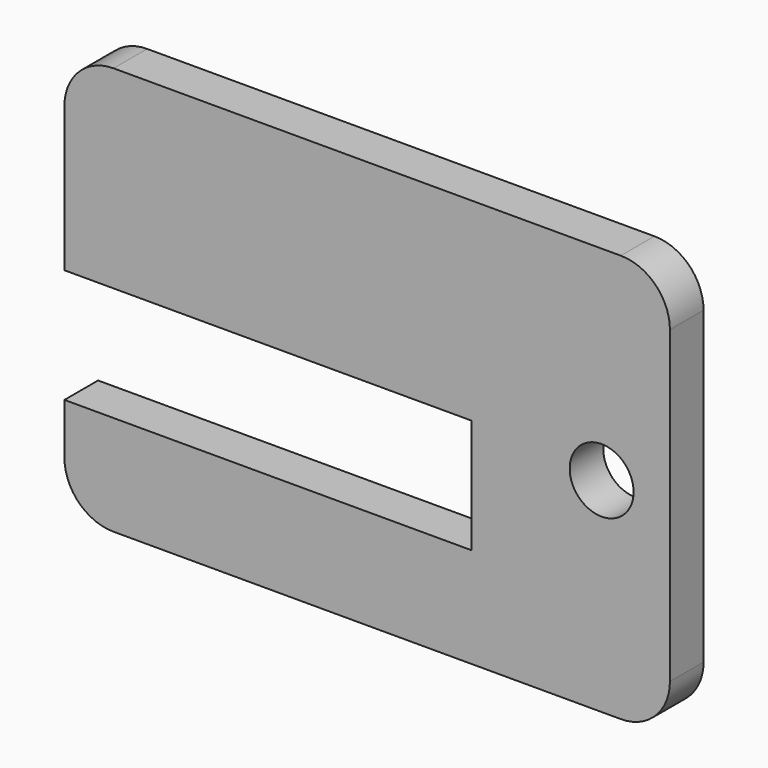
from build123d import *

# Parameters (mm, degrees)
F0_R     = 1.9
F0_R_2   = 1.2
F1_DEPTH = 2.5


with BuildPart() as f1:
    # F0 (on Front) → F1 (new body)
    with BuildSketch(Plane.XZ):
        with BuildLine():
            Line((-75.4409729668, -27.461595714), (-105.5989729668, -27.461595714))
            ThreePointArc((-105.5989729668, -27.461595714), (-107.6644318746, -28.3171368061), (-108.5199729668, -30.382595714))
            Line((-108.5199729668, -30.382595714), (-108.5199729668, -38.982595714))
            Line((-108.5199729668, -38.982595714), (-84.3267729668, -38.982595714))
            Line((-84.3267729668, -38.982595714), (-84.3267729668, -43.232595714))
            Line((-84.3267729668, -43.232595714), (-84.3267729668, -43.516595714))
            Line((-84.3267729668, -43.516595714), (-84.3267729668, -45.766595714))
            Line((-84.3267729668, -45.766595714), (-87.5695321803, -45.766595714))
            ThreePointArc((-87.5695321803, -45.766595714), (-88.9111729668, -46.766595714), (-90.2528137533, -45.766595714))
            Line((-90.2528137533, -45.766595714), (-91.9383321803, -45.766595714))
            ThreePointArc((-91.9383321803, -45.766595714), (-93.2799729668, -46.766595714), (-94.6216137533, -45.766595714))
            Line((-94.6216137533, -45.766595714), (-96.3071321803, -45.766595714))
            ThreePointArc((-96.3071321803, -45.766595714), (-97.6487729668, -46.766595714), (-98.9904137533, -45.766595714))
            Line((-98.9904137533, -45.766595714), (-100.6759321803, -45.766595714))
            ThreePointArc((-100.6759321803, -45.766595714), (-102.0175729668, -46.766595714), (-103.3592137533, -45.766595714))
            Line((-103.3592137533, -45.766595714), (-108.5199729668, -45.766595714))
            Line((-108.5199729668, -45.766595714), (-108.5199729668, -48.797595714))
            ThreePointArc((-108.5199729668, -48.797595714), (-107.6644318746, -50.8630546218), (-105.5989729668, -51.718595714))
            Line((-105.5989729668, -51.718595714), (-75.4409729668, -51.718595714))
            ThreePointArc((-75.4409729668, -51.718595714), (-73.3755140589, -50.8630546218), (-72.5199729668, -48.797595714))
            Line((-72.5199729668, -48.797595714), (-72.5199729668, -43.218595714))
            Line((-72.5199729668, -43.218595714), (-72.5199729668, -30.382595714))
            ThreePointArc((-72.5199729668, -30.382595714), (-73.3755140589, -28.3171368061), (-75.4409729668, -27.461595714))
        make_face()
        with BuildLine():
            ThreePointArc((-77.6666417669, -47.210095714), (-76.8396627435, -45.5306430772), (-75.3794729668, -46.702095714))
            ThreePointArc((-75.3794729668, -46.702095714), (-75.40802033, -46.9622854907), (-75.4923041666, -47.210095714))
            ThreePointArc((-75.4923041666, -47.210095714), (-75.40802033, -47.4579059372), (-75.3794729668, -47.718095714))
            ThreePointArc((-75.3794729668, -47.718095714), (-76.8396627435, -48.8895483507), (-77.6666417669, -47.210095714))
        make_face(mode=Mode.SUBTRACT)
        with Locations((-76.5794729668, -39.590095714)):
            Circle(F0_R, mode=Mode.SUBTRACT)
        with Locations((-76.5794729668, -31.970095714)):
            Circle(F0_R_2, mode=Mode.SUBTRACT)
        with Locations((-76.5794729668, -31.970095714)):
            Circle(F0_R_2)
        with BuildLine():
            ThreePointArc((-75.4923041666, -47.210095714), (-76.5794729668, -47.902095714), (-77.6666417669, -47.210095714))
            ThreePointArc((-77.6666417669, -47.210095714), (-76.8396627435, -48.8895483507), (-75.3794729668, -47.718095714))
            ThreePointArc((-75.3794729668, -47.718095714), (-75.40802033, -47.4579059372), (-75.4923041666, -47.210095714))
        make_face()
        with BuildLine():
            ThreePointArc((-75.4923041666, -47.210095714), (-76.5794729668, -46.518095714), (-77.6666417669, -47.210095714))
            ThreePointArc((-77.6666417669, -47.210095714), (-76.5794729668, -47.902095714), (-75.4923041666, -47.210095714))
        make_face()
        with BuildLine():
            ThreePointArc((-75.4923041666, -47.210095714), (-75.40802033, -46.9622854907), (-75.3794729668, -46.702095714))
            ThreePointArc((-75.3794729668, -46.702095714), (-76.8396627435, -45.5306430772), (-77.6666417669, -47.210095714))
            ThreePointArc((-77.6666417669, -47.210095714), (-76.5794729668, -46.518095714), (-75.4923041666, -47.210095714))
        make_face()
        with BuildLine():
            Line((-100.6759321803, -45.766595714), (-103.3592137533, -45.766595714))
            ThreePointArc((-103.3592137533, -45.766595714), (-102.0175729668, -46.766595714), (-100.6759321803, -45.766595714))
        make_face()
        with BuildLine():
            Line((-96.3071321803, -45.766595714), (-98.9904137533, -45.766595714))
            ThreePointArc((-98.9904137533, -45.766595714), (-97.6487729668, -46.766595714), (-96.3071321803, -45.766595714))
        make_face()
        with BuildLine():
            ThreePointArc((-94.6216137533, -45.766595714), (-93.2799729668, -46.766595714), (-91.9383321803, -45.766595714))
            Line((-91.9383321803, -45.766595714), (-94.6216137533, -45.766595714))
        make_face()
        with BuildLine():
            ThreePointArc((-90.2528137533, -45.766595714), (-88.9111729668, -46.766595714), (-87.5695321803, -45.766595714))
            Line((-87.5695321803, -45.766595714), (-90.2528137533, -45.766595714))
        make_face()
    extrude(amount=F1_DEPTH)


solid = f1.part
